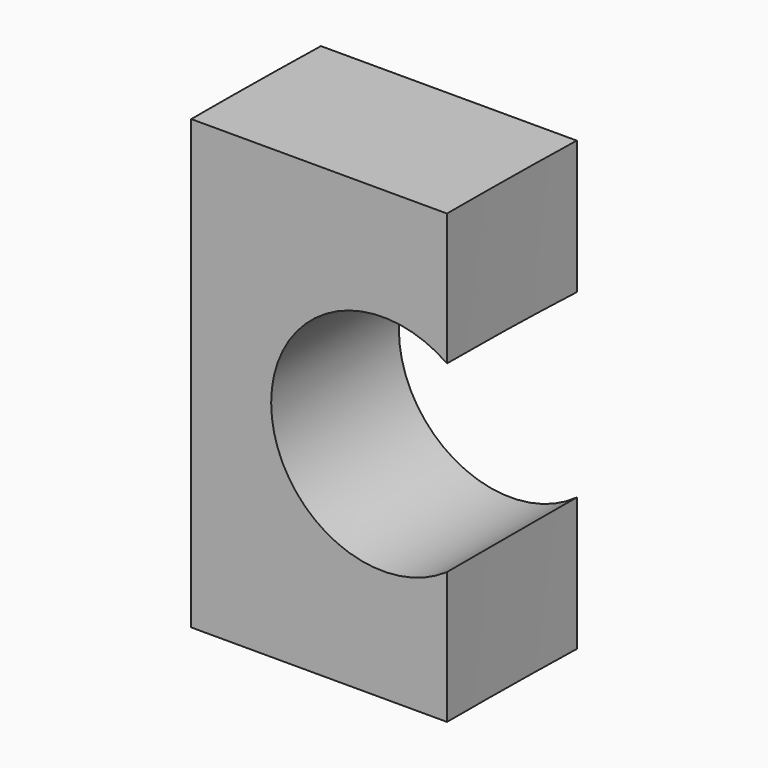
from build123d import *

# Parameters (mm, degrees)
PAD_DEPTH    = 7
SKETCH001_R  = 1.75
POCKET_DEPTH = 5


with BuildPart() as part:
    # Sketch → Pad (new body)
    with BuildSketch(Plane.XY):
        with BuildLine():
            ThreePointArc((-95.967531, 2.496613), (-95.991882, 1.248412), (-96, 0))
            Line((-100, 0), (-96, 0))
            ThreePointArc((-99.96883, 2.496613), (-99.992207, 1.248404), (-100, 0))
            Line((-99.96883, 2.496613), (-95.967531, 2.496613))
        make_face()
    extrude(amount=PAD_DEPTH)

    # Sketch001 (on Face1 of Pad) → Pocket (cut)
    with BuildSketch(Plane(origin=(0, 2.496613, 0), x_dir=(-1, 0, 0), z_dir=(0, 1, 0))):
        with Locations((97, 3.5)):
            Circle(SKETCH001_R)
    extrude(amount=-POCKET_DEPTH, mode=Mode.SUBTRACT)


solid = part.part
